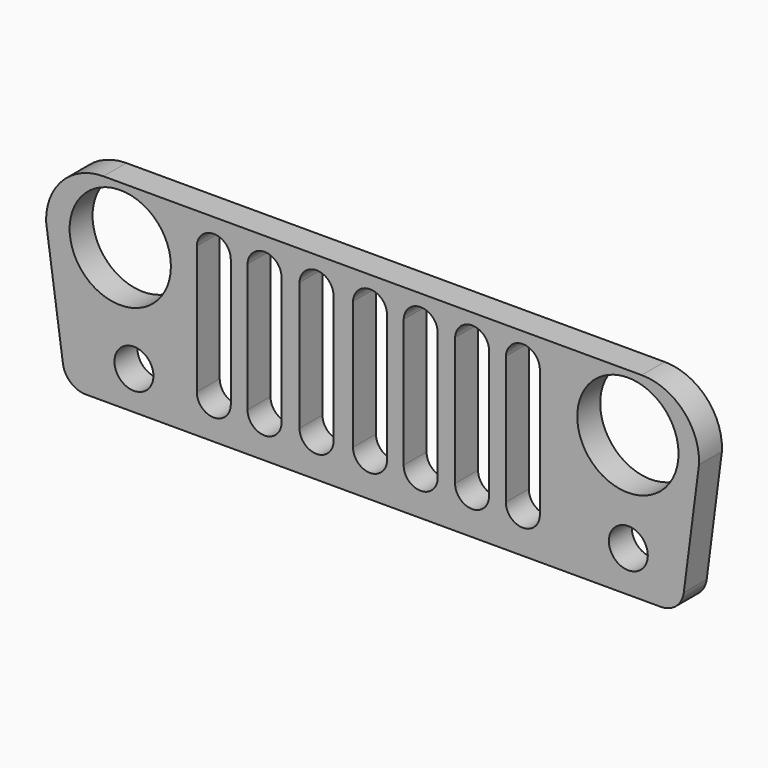
from build123d import *

# Parameters (mm, degrees)
F0_R     = 2.157429
F0_R_2   = 5.60947
F1_DEPTH = 3.175
F2_DEPTH = 0.004921
F3_DEPTH = 3.175


with BuildPart() as f1:
    # F0 (on Front) → F1 (new body)
    with BuildSketch(Plane.XZ):
        with BuildLine():
            Line((19.481216, 38.301506), (-40.142396, 38.301506))
            ThreePointArc((-40.142396, 38.301506), (-44.686392, 36.387111), (-46.490546, 31.798229))
            Line((-46.490546, 31.798229), (-44.625234, 18.579618))
            ThreePointArc((-44.625234, 18.579618), (-43.776004, 17.017098), (-42.110151, 16.394528))
            Line((-42.110151, 16.394528), (21.620648, 16.394528))
            ThreePointArc((21.620648, 16.394528), (23.297675, 17.026865), (24.139706, 18.609033))
            Line((24.139706, 18.609033), (25.823629, 31.641185))
            ThreePointArc((25.823629, 31.641185), (24.07975, 36.330545), (19.481216, 38.301506))
        make_face()
        with Locations((-36.75957, 20.633117)):
            Circle(F0_R, mode=Mode.SUBTRACT)
        with Locations((17.996946, 20.940602)):
            Circle(F0_R, mode=Mode.SUBTRACT)
        with Locations((-38.274463, 31.951506)):
            Circle(F0_R_2, mode=Mode.SUBTRACT)
        with BuildLine():
            Line((-29.799683, 20.633117), (-29.799683, 34.853889))
            ThreePointArc((-29.799683, 34.853889), (-27.878732, 36.660702), (-26.0331, 34.777018))
            Line((-26.0331, 34.777018), (-26.0331, 20.556246))
            ThreePointArc((-26.0331, 20.556246), (-27.954051, 18.749433), (-29.799683, 20.633117))
        make_face(mode=Mode.SUBTRACT)
        with BuildLine():
            Line((-24.176236, 20.709988), (-24.176236, 34.93076))
            ThreePointArc((-24.176236, 34.93076), (-22.255285, 36.737572), (-20.409653, 34.853889))
            Line((-20.409653, 34.853889), (-20.409653, 20.633116))
            ThreePointArc((-20.409653, 20.633116), (-22.330604, 18.826304), (-24.176236, 20.709988))
        make_face(mode=Mode.SUBTRACT)
        with BuildLine():
            Line((-18.419787, 20.786859), (-18.419787, 35.007631))
            ThreePointArc((-18.419787, 35.007631), (-16.498836, 36.814444), (-14.653204, 34.93076))
            Line((-14.653204, 34.93076), (-14.653204, 20.709988))
            ThreePointArc((-14.653204, 20.709988), (-16.574155, 18.903175), (-18.419787, 20.786859))
        make_face(mode=Mode.SUBTRACT)
        with BuildLine():
            Line((-12.493486, 20.86373), (-12.493486, 35.084503))
            ThreePointArc((-12.493486, 35.084503), (-10.572535, 36.891315), (-8.726902, 35.007631))
            Line((-8.726902, 35.007631), (-8.726902, 20.786859))
            ThreePointArc((-8.726902, 20.786859), (-10.647853, 18.980047), (-12.493486, 20.86373))
        make_face(mode=Mode.SUBTRACT)
        with BuildLine():
            Line((-6.886294, 20.940602), (-6.886294, 35.161374))
            ThreePointArc((-6.886294, 35.161374), (-4.965343, 36.968187), (-3.11971, 35.084503))
            Line((-3.11971, 35.084503), (-3.11971, 20.86373))
            ThreePointArc((-3.11971, 20.86373), (-5.040661, 19.056918), (-6.886294, 20.940602))
        make_face(mode=Mode.SUBTRACT)
        with BuildLine():
            Line((-1.18931, 21.017473), (-1.18931, 35.238246))
            ThreePointArc((-1.18931, 35.238246), (0.73164, 37.045058), (2.577273, 35.161374))
            Line((2.577273, 35.161374), (2.577273, 20.940602))
            ThreePointArc((2.577273, 20.940602), (0.656322, 19.133789), (-1.18931, 21.017473))
        make_face(mode=Mode.SUBTRACT)
        with BuildLine():
            Line((4.431474, 21.017473), (4.431474, 35.238246))
            ThreePointArc((4.431474, 35.238246), (6.352424, 37.045058), (8.198057, 35.161374))
            Line((8.198057, 35.161374), (8.198057, 20.940602))
            ThreePointArc((8.198057, 20.940602), (6.277106, 19.133789), (4.431474, 21.017473))
        make_face(mode=Mode.SUBTRACT)
        with Locations((17.949626, 31.951506)):
            Circle(F0_R_2, mode=Mode.SUBTRACT)
    extrude(amount=F1_DEPTH)

    # F0 (on Front) → F2 (join)
    with BuildSketch(Plane.XZ):
        with BuildLine():
            Line((19.481216, 38.301506), (-40.142396, 38.301506))
            ThreePointArc((-40.142396, 38.301506), (-44.686392, 36.387111), (-46.490546, 31.798229))
            Line((-46.490546, 31.798229), (-44.625234, 18.579618))
            ThreePointArc((-44.625234, 18.579618), (-43.776004, 17.017098), (-42.110151, 16.394528))
            Line((-42.110151, 16.394528), (21.620648, 16.394528))
            ThreePointArc((21.620648, 16.394528), (23.297675, 17.026865), (24.139706, 18.609033))
            Line((24.139706, 18.609033), (25.823629, 31.641185))
            ThreePointArc((25.823629, 31.641185), (24.07975, 36.330545), (19.481216, 38.301506))
        make_face()
        with Locations((-36.75957, 20.633117)):
            Circle(F0_R, mode=Mode.SUBTRACT)
        with Locations((17.996946, 20.940602)):
            Circle(F0_R, mode=Mode.SUBTRACT)
        with Locations((-38.274463, 31.951506)):
            Circle(F0_R_2, mode=Mode.SUBTRACT)
        with BuildLine():
            Line((-29.799683, 20.633117), (-29.799683, 34.853889))
            ThreePointArc((-29.799683, 34.853889), (-27.878732, 36.660702), (-26.0331, 34.777018))
            Line((-26.0331, 34.777018), (-26.0331, 20.556246))
            ThreePointArc((-26.0331, 20.556246), (-27.954051, 18.749433), (-29.799683, 20.633117))
        make_face(mode=Mode.SUBTRACT)
        with BuildLine():
            Line((-24.176236, 20.709988), (-24.176236, 34.93076))
            ThreePointArc((-24.176236, 34.93076), (-22.255285, 36.737572), (-20.409653, 34.853889))
            Line((-20.409653, 34.853889), (-20.409653, 20.633116))
            ThreePointArc((-20.409653, 20.633116), (-22.330604, 18.826304), (-24.176236, 20.709988))
        make_face(mode=Mode.SUBTRACT)
        with BuildLine():
            Line((-18.419787, 20.786859), (-18.419787, 35.007631))
            ThreePointArc((-18.419787, 35.007631), (-16.498836, 36.814444), (-14.653204, 34.93076))
            Line((-14.653204, 34.93076), (-14.653204, 20.709988))
            ThreePointArc((-14.653204, 20.709988), (-16.574155, 18.903175), (-18.419787, 20.786859))
        make_face(mode=Mode.SUBTRACT)
        with BuildLine():
            Line((-12.493486, 20.86373), (-12.493486, 35.084503))
            ThreePointArc((-12.493486, 35.084503), (-10.572535, 36.891315), (-8.726902, 35.007631))
            Line((-8.726902, 35.007631), (-8.726902, 20.786859))
            ThreePointArc((-8.726902, 20.786859), (-10.647853, 18.980047), (-12.493486, 20.86373))
        make_face(mode=Mode.SUBTRACT)
        with BuildLine():
            Line((-6.886294, 20.940602), (-6.886294, 35.161374))
            ThreePointArc((-6.886294, 35.161374), (-4.965343, 36.968187), (-3.11971, 35.084503))
            Line((-3.11971, 35.084503), (-3.11971, 20.86373))
            ThreePointArc((-3.11971, 20.86373), (-5.040661, 19.056918), (-6.886294, 20.940602))
        make_face(mode=Mode.SUBTRACT)
        with BuildLine():
            Line((-1.18931, 21.017473), (-1.18931, 35.238246))
            ThreePointArc((-1.18931, 35.238246), (0.73164, 37.045058), (2.577273, 35.161374))
            Line((2.577273, 35.161374), (2.577273, 20.940602))
            ThreePointArc((2.577273, 20.940602), (0.656322, 19.133789), (-1.18931, 21.017473))
        make_face(mode=Mode.SUBTRACT)
        with BuildLine():
            Line((4.431474, 21.017473), (4.431474, 35.238246))
            ThreePointArc((4.431474, 35.238246), (6.352424, 37.045058), (8.198057, 35.161374))
            Line((8.198057, 35.161374), (8.198057, 20.940602))
            ThreePointArc((8.198057, 20.940602), (6.277106, 19.133789), (4.431474, 21.017473))
        make_face(mode=Mode.SUBTRACT)
        with Locations((17.949626, 31.951506)):
            Circle(F0_R_2, mode=Mode.SUBTRACT)
    extrude(amount=F2_DEPTH)

    # F0 (on Front) → F3 (join)
    with BuildSketch(Plane.XZ):
        with BuildLine():
            Line((19.481216, 38.301506), (-40.142396, 38.301506))
            ThreePointArc((-40.142396, 38.301506), (-44.686392, 36.387111), (-46.490546, 31.798229))
            Line((-46.490546, 31.798229), (-44.625234, 18.579618))
            ThreePointArc((-44.625234, 18.579618), (-43.776004, 17.017098), (-42.110151, 16.394528))
            Line((-42.110151, 16.394528), (21.620648, 16.394528))
            ThreePointArc((21.620648, 16.394528), (23.297675, 17.026865), (24.139706, 18.609033))
            Line((24.139706, 18.609033), (25.823629, 31.641185))
            ThreePointArc((25.823629, 31.641185), (24.07975, 36.330545), (19.481216, 38.301506))
        make_face()
        with Locations((-36.75957, 20.633117)):
            Circle(F0_R, mode=Mode.SUBTRACT)
        with Locations((17.996946, 20.940602)):
            Circle(F0_R, mode=Mode.SUBTRACT)
        with Locations((-38.274463, 31.951506)):
            Circle(F0_R_2, mode=Mode.SUBTRACT)
        with BuildLine():
            Line((-29.799683, 20.633117), (-29.799683, 34.853889))
            ThreePointArc((-29.799683, 34.853889), (-27.878732, 36.660702), (-26.0331, 34.777018))
            Line((-26.0331, 34.777018), (-26.0331, 20.556246))
            ThreePointArc((-26.0331, 20.556246), (-27.954051, 18.749433), (-29.799683, 20.633117))
        make_face(mode=Mode.SUBTRACT)
        with BuildLine():
            Line((-24.176236, 20.709988), (-24.176236, 34.93076))
            ThreePointArc((-24.176236, 34.93076), (-22.255285, 36.737572), (-20.409653, 34.853889))
            Line((-20.409653, 34.853889), (-20.409653, 20.633116))
            ThreePointArc((-20.409653, 20.633116), (-22.330604, 18.826304), (-24.176236, 20.709988))
        make_face(mode=Mode.SUBTRACT)
        with BuildLine():
            Line((-18.419787, 20.786859), (-18.419787, 35.007631))
            ThreePointArc((-18.419787, 35.007631), (-16.498836, 36.814444), (-14.653204, 34.93076))
            Line((-14.653204, 34.93076), (-14.653204, 20.709988))
            ThreePointArc((-14.653204, 20.709988), (-16.574155, 18.903175), (-18.419787, 20.786859))
        make_face(mode=Mode.SUBTRACT)
        with BuildLine():
            Line((-12.493486, 20.86373), (-12.493486, 35.084503))
            ThreePointArc((-12.493486, 35.084503), (-10.572535, 36.891315), (-8.726902, 35.007631))
            Line((-8.726902, 35.007631), (-8.726902, 20.786859))
            ThreePointArc((-8.726902, 20.786859), (-10.647853, 18.980047), (-12.493486, 20.86373))
        make_face(mode=Mode.SUBTRACT)
        with BuildLine():
            Line((-6.886294, 20.940602), (-6.886294, 35.161374))
            ThreePointArc((-6.886294, 35.161374), (-4.965343, 36.968187), (-3.11971, 35.084503))
            Line((-3.11971, 35.084503), (-3.11971, 20.86373))
            ThreePointArc((-3.11971, 20.86373), (-5.040661, 19.056918), (-6.886294, 20.940602))
        make_face(mode=Mode.SUBTRACT)
        with BuildLine():
            Line((-1.18931, 21.017473), (-1.18931, 35.238246))
            ThreePointArc((-1.18931, 35.238246), (0.73164, 37.045058), (2.577273, 35.161374))
            Line((2.577273, 35.161374), (2.577273, 20.940602))
            ThreePointArc((2.577273, 20.940602), (0.656322, 19.133789), (-1.18931, 21.017473))
        make_face(mode=Mode.SUBTRACT)
        with BuildLine():
            Line((4.431474, 21.017473), (4.431474, 35.238246))
            ThreePointArc((4.431474, 35.238246), (6.352424, 37.045058), (8.198057, 35.161374))
            Line((8.198057, 35.161374), (8.198057, 20.940602))
            ThreePointArc((8.198057, 20.940602), (6.277106, 19.133789), (4.431474, 21.017473))
        make_face(mode=Mode.SUBTRACT)
        with Locations((17.949626, 31.951506)):
            Circle(F0_R_2, mode=Mode.SUBTRACT)
    extrude(amount=F3_DEPTH)


solid = f1.part
